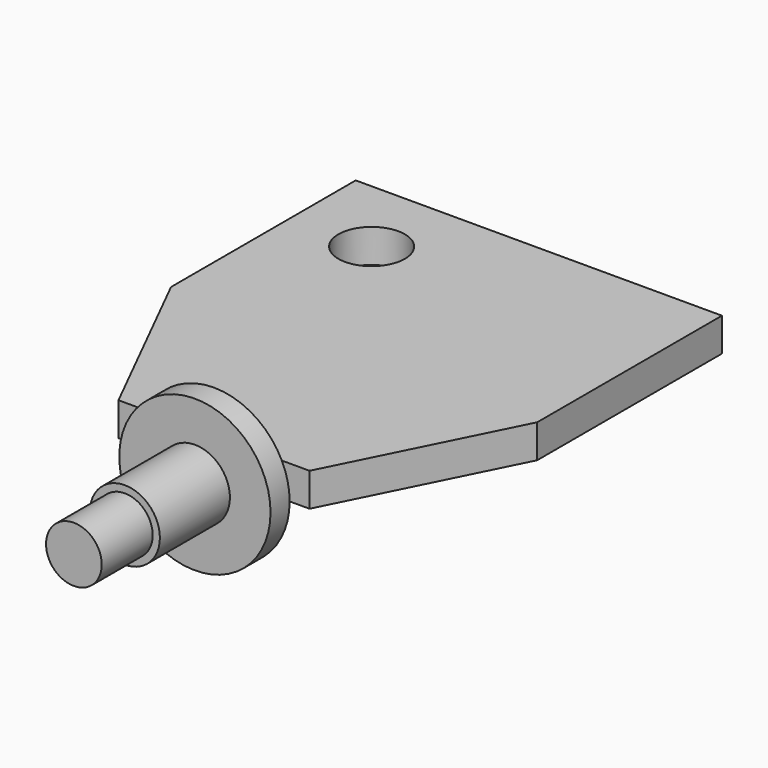
from build123d import *

# Parameters (mm, degrees)
F0_R     = 2.088712
F1_DEPTH = 2.1


with BuildPart() as f1:
    # F0 (on Top) → F1 (new body)
    with BuildSketch(Plane.XY):
        Polygon((-11.5, 11), (-6, 0), (6, 0), (11.5, 11), (11.5, 25.5), (-11.5, 25.5), align=None)
        with Locations((-6.5, 20.5)):
            Circle(F0_R, mode=Mode.SUBTRACT)
    extrude(amount=F1_DEPTH)

    # F2 (on Top) → F3 (revolve)
    with BuildSketch(Plane.XY):
        Polygon((4.75, 0), (0, 0), (0, -11), (1.75, -11), (1.75, -7), (2.2, -7), (2.2, -1.5), (4.75, -1.5), align=None)
    revolve(axis=Axis((0, -1.236811, 0), (0, -1, 0)))


solid = f1.part
